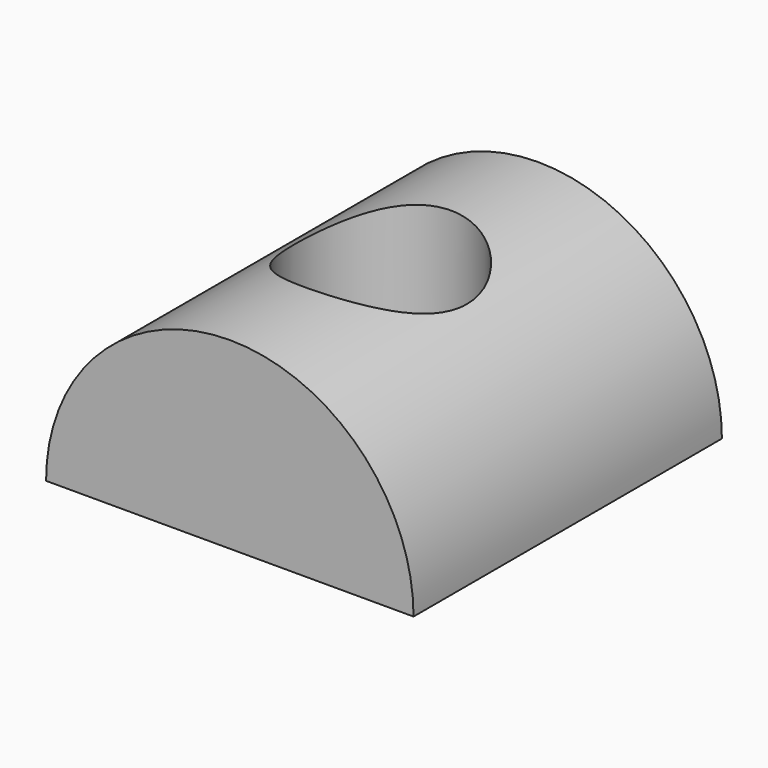
from build123d import *

# Parameters (mm, degrees)
F0_W     = 43.18
F0_H     = 43.688
F0_R     = 9.779
F1_DEPTH = 20.828
F3_DEPTH = 43.689


with BuildPart() as f1:
    # F0 (on Top) → F1 (new body)
    with BuildSketch(Plane.XY):
        with Locations((21.59, -21.844)):
            Rectangle(F0_W, F0_H)
        with Locations((21.209, -21.844)):
            Circle(F0_R, mode=Mode.SUBTRACT)
    extrude(amount=F1_DEPTH)

    # F2 (on face) → F3 (cut, through all)
    with BuildSketch(Plane.XZ.offset(43.688)):
        with BuildLine():
            ThreePointArc((0.764472, 0), (21.59, 20.825528), (42.415528, 0))
            Line((42.415528, 0), (43.18, 0))
            Line((43.18, 0), (43.18, 20.828))
            Line((43.18, 20.828), (0, 20.828))
            Line((0, 20.828), (0, 0))
            Line((0, 0), (0.764472, 0))
        make_face()
    extrude(amount=-F3_DEPTH, mode=Mode.SUBTRACT)


solid = f1.part
